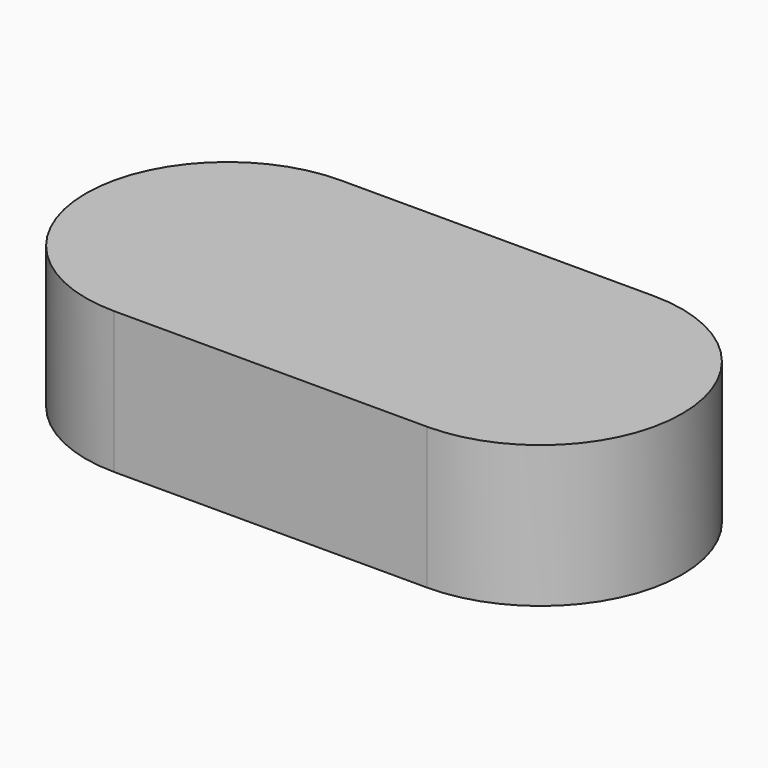
from build123d import *

# Parameters (mm, degrees)
PAD004_DEPTH = 2
PAD_DEPTH    = 15
PAD001_DEPTH = 4


with BuildPart() as topinside:
    # Sketch004 → Pad004 (new body)
    with BuildSketch(Plane.XY.offset(13)):
        with BuildLine():
            ThreePointArc((-21, 17), (-38, 0), (-21, -17))
            Line((-21, -17), (21, -17))
            ThreePointArc((21, -17), (38, 0), (21, 17))
            Line((-21, 17), (21, 17))
        make_face()
    extrude(amount=PAD004_DEPTH)


with BuildPart() as sides:
    # Sketch → Pad (new body)
    with BuildSketch(Plane.XY):
        with BuildLine():
            ThreePointArc((-21, 19), (-40, 0), (-21, -19))
            Line((-21, -19), (21, -19))
            ThreePointArc((21, -19), (40, 0), (21, 19))
            Line((-21, 19), (21, 19))
        make_face()
        with BuildLine():
            ThreePointArc((-21, 17), (-38, 0), (-21, -17))
            Line((-21, -17), (21, -17))
            ThreePointArc((21, -17), (38, 0), (21, 17))
            Line((-21, 17), (21, 17))
        make_face(mode=Mode.SUBTRACT)
    extrude(amount=PAD_DEPTH)


with BuildPart() as sides_1:
    # Body placement: moved
    add(sides.part.moved(Location((0, 0, -2))))


with BuildPart() as top:
    # Sketch001 → Pad001 (new body)
    with BuildSketch(Plane.XY.offset(13)):
        with BuildLine():
            ThreePointArc((-21, 19), (-40, 0), (-21, -19))
            Line((-21, -19), (21, -19))
            ThreePointArc((21, -19), (40, 0), (21, 19))
            Line((-21, 19), (21, 19))
        make_face()
    extrude(amount=PAD001_DEPTH)

    # Boolean: cut TopInside
    add(topinside.part, mode=Mode.SUBTRACT)

    # Boolean002: union Sides
    add(sides_1.part)


solid = top.part
